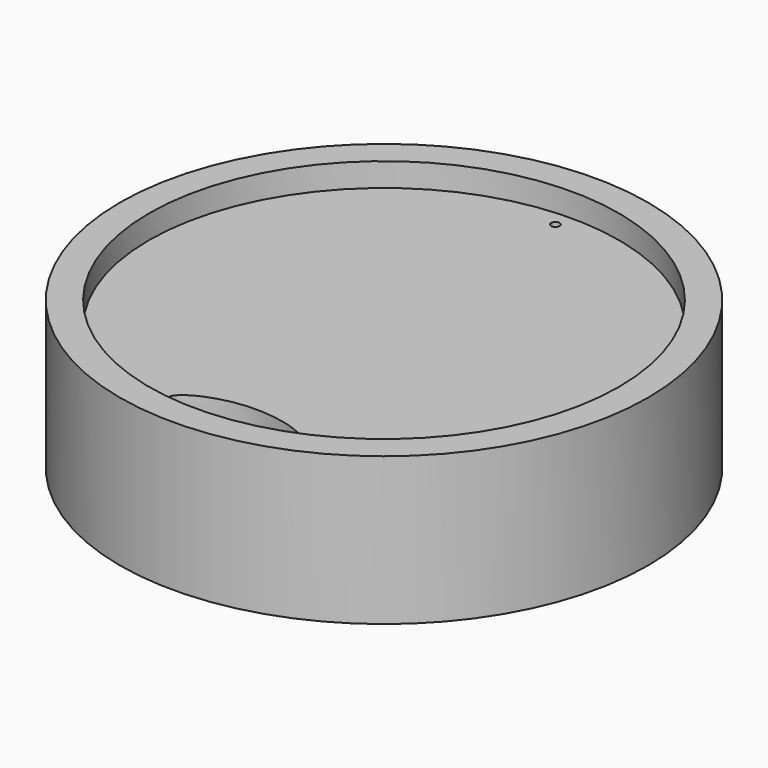
from build123d import *

# Parameters (mm, degrees)
F0_R     = 44.6905983142
F1_DEPTH = 25
F2_R     = 39.7625811832
F3_DEPTH = 4
F5_DEPTH = 21.001
F6_R     = 0.7154375695
F7_DEPTH = 21.0010001
F8_R     = 39.7662150712
F8_R_2   = 0.7154375695
F9_DEPTH = 14


with BuildPart() as f1:
    # F0 (on Top) → F1 (new body)
    with BuildSketch(Plane.XY):
        with Locations((-15.1616595685, 9.6226148307)):
            Circle(F0_R)
    extrude(amount=F1_DEPTH)

    # F2 (on face) → F3 (cut)
    with BuildSketch(Plane.XY.offset(25)):
        with Locations((-15.1616595685, 9.6226148307)):
            Circle(F2_R)
    extrude(amount=-F3_DEPTH, mode=Mode.SUBTRACT)

    # F4 (on face) → F5 (cut, through all)
    with BuildSketch(Plane.XY.offset(21)):
        with BuildLine():
            add(Edge.make_bspline(
                [(-24.8842015862, -23.9847730845), (-24.751571743, -25.7479147281), (-14.8764070104, -28.1339639947), (2.363229172, -22.8278430113), (-15.4108273297, -17.1809770311), (-25.0192258083, -22.1898012822), (-24.8842015862, -23.9847730845)],
                knots=[0, 0, 0, 0, 0.2396576866, 0.4971175886, 0.7560157511, 1, 1, 1, 1], degree=3))
        make_face()
    extrude(amount=-F5_DEPTH, mode=Mode.SUBTRACT)

    # F6 (on face) → F7 (cut, through all)
    with BuildSketch(Plane.XY.offset(21)):
        with Locations((-15.7932732254, 46.6668978333)):
            Circle(F6_R)
    extrude(amount=-F7_DEPTH, mode=Mode.SUBTRACT)

    # F8 (on face) → F9 (cut)
    with BuildSketch(Plane(origin=(0, 0, 0), x_dir=(1, 0, 0), z_dir=(0, 0, -1))):
        with Locations((-15.1616595685, -9.6226148307)):
            Circle(F8_R)
        with Locations((-15.7932732254, -46.6668978333)):
            Circle(F8_R_2, mode=Mode.SUBTRACT)
        with BuildLine():
            add(Edge.make_bspline(
                [(-24.8842015862, 23.9847730845), (-24.8911452084, 23.8924666388), (-24.888371728, 23.799570827), (-24.8762555423, 23.7072804576), (-24.855790455, 23.6164271336), (-24.8281284381, 23.5275727498), (-24.7943692309, 23.4410534624), (-24.7554721282, 23.3569978115), (-24.6762660636, 23.2076683313), (-24.6373321353, 23.141629018), (-24.5957616183, 23.0771739055), (-24.5518941434, 23.0142517205), (-24.5060146802, 22.9528055987), (-24.4583585563, 22.8927697396), (-24.4091136917, 22.8340678621), (-24.2951335725, 22.7048867825), (-24.2296199391, 22.6351387447), (-24.1621765597, 22.5672221501), (-24.0930442899, 22.5010185723), (-24.0224196237, 22.4364260325), (-23.9504628247, 22.3733507123), (-23.8773019966, 22.3117027052), (-23.6280353269, 22.1092963253), (-23.4470131486, 21.9747437686), (-23.2612685118, 21.8466153281), (-23.0716712534, 21.7242481532), (-22.87886828, 21.6071333648), (-22.6833359387, 21.4948360767), (-22.4853761009, 21.3869997408), (-22.0365992692, 21.1545493655), (-21.7847229546, 21.0322559578), (-21.5300131244, 20.9158571469), (-21.2728395726, 20.8049762518), (-21.0134959265, 20.6993265457), (-20.7522141353, 20.5986781439), (-20.4891682368, 20.502849378), (-19.8972368304, 20.2989876643), (-19.5675375394, 20.1934415753), (-19.2356580968, 20.0947838468), (-18.9018320844, 20.0028445839), (-18.5662614795, 19.9175220072), (-18.2291224443, 19.838762292), (-17.8905679312, 19.7665502585), (-17.2582009761, 19.6444102678), (-16.964736384, 19.5927818802), (-16.6704234935, 19.5460424355), (-16.3753531794, 19.5042292364), (-16.0796172889, 19.4673986596), (-15.7833089045, 19.4356246154), (-15.4865226065, 19.4089970085), (-14.6964867848, 19.3521656766), (-14.2026325717, 19.3311579491), (-13.7082719853, 19.323673936), (-13.2138389543, 19.3290136415), (-12.7197212313, 19.3466491477), (-12.2262608224, 19.3762031344), (-11.7337550637, 19.4174569261), (-10.813518073, 19.5166010712), (-10.3855908509, 19.5717051597), (-9.9588285875, 19.6356829877), (-9.5334400248, 19.7086182547), (-9.109697804, 19.7907216797), (-8.6879395492, 19.8823360076), (-8.2685809043, 19.9840006907), (-7.6692511074, 20.1461394501), (-7.4869229926, 20.197739325), (-7.305219405, 20.2515355676), (-7.1241991626, 20.3076214003), (-6.9439349033, 20.3661052757), (-6.7645147562, 20.4271160266), (-6.5860453938, 20.4908121068), (-6.254696052, 20.6151838585), (-6.1015679798, 20.6751409609), (-5.9493429971, 20.7374007127), (-5.7981254711, 20.8021210424), (-5.6480527105, 20.8694825334), (-5.4993000619, 20.9396997859), (-5.352091776, 21.0130449311), (-5.049328083, 21.1730724882), (-4.8944301935, 21.2601773381), (-4.7420379458, 21.351804078), (-4.5925696804, 21.4486212058), (-4.4467809482, 21.5512951436), (-4.3059967032, 21.6607552403), (-4.171918878, 21.7779694123), (-3.9820103602, 21.9721649834), (-3.91933381, 22.0417830638), (-3.859860511, 22.1143746793), (-3.8042449113, 22.190231403), (-3.7534261664, 22.2695356098), (-3.7086220132, 22.352355558), (-3.6712765509, 22.4386130462), (-3.6325609686, 22.5604796694), (-3.6235475081, 22.592989586), (-3.6158562116, 22.625508139), (-3.6094987647, 22.6580310997), (-3.6044868395, 22.690554248), (-3.6008320948, 22.7230733726), (-3.5985461757, 22.7555842705), (-3.5967352526, 22.8205812138), (-3.5972089492, 22.8530673208), (-3.5990503765, 22.8855383141), (-3.6022481072, 22.9179914392), (-3.6067907142, 22.9504239415), (-3.6126667703, 22.9828330664), (-3.619864848, 23.0152160594), (-3.6428351371, 23.102560259), (-3.6608525682, 23.1565906194), (-3.6821125308, 23.2094824212), (-3.7062697452, 23.2611273323), (-3.7329838201, 23.3114710781), (-3.7619452523, 23.3605016698), (-3.7928905413, 23.408242296), (-3.8646571625, 23.5102606567), (-3.9062117551, 23.5639870404), (-3.949907681, 23.6160285277), (-3.995440574, 23.6664779113), (-4.0425578215, 23.7154257906), (-4.0910543201, 23.7629642703), (-4.140770382, 23.8091888469), (-4.2558032479, 23.9110669108), (-4.3217455541, 23.9659664387), (-4.3891611489, 24.0190785563), (-4.4578435397, 24.070548321), (-4.5276265311, 24.120498277), (-4.5983770003, 24.1690378707), (-4.6699912206, 24.2162683608), (-4.8598647658, 24.3369393694), (-4.979368245, 24.4083687716), (-5.1005551521, 24.4769559223), (-5.2231590563, 24.5429853098), (-5.3469747233, 24.606681357), (-5.4718435874, 24.6682345898), (-5.5976470884, 24.7278140349), (-5.8731020203, 24.8534095069), (-6.0230481389, 24.9187177349), (-6.1739919373, 24.9817193826), (-6.3258095179, 25.0425942529), (-6.4784007471, 25.1014892666), (-6.6316847131, 25.1585296043), (-6.7855972746, 25.2138248228), (-7.2450409477, 25.3733585476), (-7.5522097036, 25.4728034138), (-7.8612095316, 25.5665353033), (-8.1717534402, 25.6550457013), (-8.4836197787, 25.7387057177), (-8.7966397248, 25.8178093289), (-9.1106941619, 25.8925843063), (-9.7751521214, 26.0415643167), (-10.1257377207, 26.1148049283), (-10.4773290394, 26.1831793836), (-10.8298122723, 26.2468536908), (-11.1830903824, 26.3059373134), (-11.5370805939, 26.3604964973), (-11.8917133021, 26.410560103), (-12.4141126322, 26.4775592691), (-12.5814208468, 26.4980023592), (-12.7488502783, 26.517446117), (-12.916394228, 26.535887619), (-13.0840460673, 26.5533221125), (-13.2517992377, 26.569743015), (-13.4196472511, 26.5851419147), (-13.755440419, 26.6138684058), (-13.9233852036, 26.6271967172), (-14.0914117258, 26.6394844457), (-14.2595133059, 26.6507169279), (-14.4276829989, 26.6608821201), (-14.5959136343, 26.6699648285), (-14.7641978026, 26.6779426226), (-15.4668094045, 26.7065616899), (-16.0014815913, 26.717052595), (-16.5363439033, 26.7163761275), (-17.0711513874, 26.7044794526), (-17.6056107666, 26.6811276526), (-18.1393801372, 26.6459021949), (-18.6720648144, 26.5981210663), (-19.4381711152, 26.509353217), (-19.6728205121, 26.4794361441), (-19.9071102034, 26.4467241944), (-20.1409861033, 26.4110930398), (-20.374379842, 26.3723961579), (-20.607207594, 26.3304577799), (-20.8393678801, 26.2850600584), (-21.2714530924, 26.1932991389), (-21.4715479801, 26.1478661938), (-21.6709615908, 26.0994400371), (-21.8695961986, 26.0478050892), (-22.067313537, 25.9927020038), (-22.2639323316, 25.9338188721), (-22.4592205165, 25.8707637255), (-22.8526079279, 25.7330984996), (-23.0501942229, 25.658329585), (-23.2457129866, 25.5779976939), (-23.4388079377, 25.4912718478), (-23.6287503173, 25.3972628999), (-23.8142215655, 25.2946773515), (-23.993488719, 25.1821020816), (-24.2354137555, 25.0033783334), (-24.305527566, 24.9480349583), (-24.3736940108, 24.890201273), (-24.4395833556, 24.8296527893), (-24.5027360604, 24.7661764981), (-24.5625646396, 24.6995727976), (-24.6183569307, 24.6296586324), (-24.7132853809, 24.4928564182), (-24.7536853284, 24.4268044353), (-24.7898357294, 24.358145571), (-24.8210372692, 24.2870046025), (-24.8465837183, 24.2136183714), (-24.8658479214, 24.138366296), (-24.8784062595, 24.0618144324), (-24.8842015862, 23.9847730845)],
                knots=[0, 0, 0, 0, 0, 0, 0, 0, 0, 0.0154781502, 0.0154781502, 0.0154781502, 0.0154781502, 0.0154781502, 0.0154781502, 0.0154781502, 0.0283061693, 0.0283061693, 0.0283061693, 0.0283061693, 0.0283061693, 0.0283061693, 0.0283061693, 0.0443208042, 0.0443208042, 0.0443208042, 0.0443208042, 0.0443208042, 0.0443208042, 0.0443208042, 0.0820556467, 0.0820556467, 0.0820556467, 0.0820556467, 0.0820556467, 0.0820556467, 0.0820556467, 0.1289005454, 0.1289005454, 0.1289005454, 0.1289005454, 0.1289005454, 0.1289005454, 0.1289005454, 0.1868172217, 0.1868172217, 0.1868172217, 0.1868172217, 0.1868172217, 0.1868172217, 0.1868172217, 0.2366703877, 0.2366703877, 0.2366703877, 0.2366703877, 0.2366703877, 0.2366703877, 0.2366703877, 0.3193543861, 0.3193543861, 0.3193543861, 0.3193543861, 0.3193543861, 0.3193543861, 0.3193543861, 0.3915439512, 0.3915439512, 0.3915439512, 0.3915439512, 0.3915439512, 0.3915439512, 0.3915439512, 0.4232521415, 0.4232521415, 0.4232521415, 0.4232521415, 0.4232521415, 0.4232521415, 0.4232521415, 0.4507724944, 0.4507724944, 0.4507724944, 0.4507724944, 0.4507724944, 0.4507724944, 0.4507724944, 0.4805674531, 0.4805674531, 0.4805674531, 0.4805674531, 0.4805674531, 0.4805674531, 0.4805674531, 0.496271474, 0.496271474, 0.496271474, 0.496271474, 0.496271474, 0.496271474, 0.496271474, 0.5019818537, 0.5019818537, 0.5019818537, 0.5019818537, 0.5019818537, 0.5019818537, 0.5019818537, 0.5076922315, 0.5076922315, 0.5076922315, 0.5076922315, 0.5076922315, 0.5076922315, 0.5076922315, 0.5173977756, 0.5173977756, 0.5173977756, 0.5173977756, 0.5173977756, 0.5173977756, 0.5173977756, 0.5289826305, 0.5289826305, 0.5289826305, 0.5289826305, 0.5289826305, 0.5289826305, 0.5289826305, 0.5436197749, 0.5436197749, 0.5436197749, 0.5436197749, 0.5436197749, 0.5436197749, 0.5436197749, 0.5673675977, 0.5673675977, 0.5673675977, 0.5673675977, 0.5673675977, 0.5673675977, 0.5673675977, 0.5952652382, 0.5952652382, 0.5952652382, 0.5952652382, 0.5952652382, 0.5952652382, 0.5952652382, 0.6503316105, 0.6503316105, 0.6503316105, 0.6503316105, 0.6503316105, 0.6503316105, 0.6503316105, 0.7114170742, 0.7114170742, 0.7114170742, 0.7114170742, 0.7114170742, 0.7114170742, 0.7114170742, 0.7401663215, 0.7401663215, 0.7401663215, 0.7401663215, 0.7401663215, 0.7401663215, 0.7401663215, 0.7689019232, 0.7689019232, 0.7689019232, 0.7689019232, 0.7689019232, 0.7689019232, 0.7689019232, 0.8601091042, 0.8601091042, 0.8601091042, 0.8601091042, 0.8601091042, 0.8601091042, 0.8601091042, 0.9004581455, 0.9004581455, 0.9004581455, 0.9004581455, 0.9004581455, 0.9004581455, 0.9004581455, 0.9354610916, 0.9354610916, 0.9354610916, 0.9354610916, 0.9354610916, 0.9354610916, 0.9354610916, 0.9715626919, 0.9715626919, 0.9715626919, 0.9715626919, 0.9715626919, 0.9715626919, 0.9715626919, 0.9868177281, 0.9868177281, 0.9868177281, 0.9868177281, 0.9868177281, 0.9868177281, 0.9868177281, 1, 1, 1, 1, 1, 1, 1, 1, 1], degree=8))
        make_face(mode=Mode.SUBTRACT)
    extrude(amount=-F9_DEPTH, mode=Mode.SUBTRACT)


solid = f1.part
